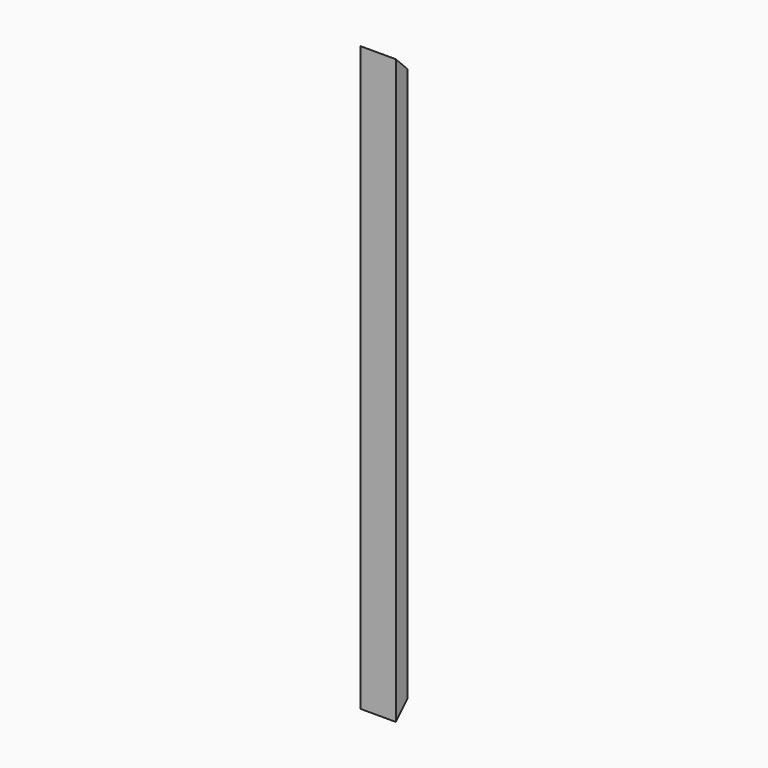
from build123d import *

# Parameters (mm, degrees)
PAD_DEPTH       = 980
POCKET_DEPTH    = 59.501
POCKET001_DEPTH = 59.501


with BuildPart() as part:
    # Sketch → Pad (new body)
    with BuildSketch(Plane.XY):
        Polygon((-29.75, 25), (-29.75, 0), (29.75, 0), (29.75, 25), (28.583333, 25), (28.583333, 1.166667), (0.583333, 1.166667), (0.583333, 25), (-0.583333, 25), (-0.583333, 1.166667), (-28.583333, 1.166667), (-28.583333, 25), align=None)
    extrude(amount=PAD_DEPTH)

    # Sketch001 (on Face3 of Pad) → Pocket (cut, through all)
    with BuildSketch(Plane.YZ.offset(29.75)):
        Polygon((0, 0), (25, 25), (25, 0), align=None)
    extrude(amount=-POCKET_DEPTH, mode=Mode.SUBTRACT)

    # Sketch002 (on Face6 of Pocket) → Pocket001 (cut, through all)
    with BuildSketch(Plane.YZ.offset(29.75)):
        Polygon((0, 980), (25, 955), (25, 980), align=None)
    extrude(amount=-POCKET001_DEPTH, mode=Mode.SUBTRACT)


solid = part.part
